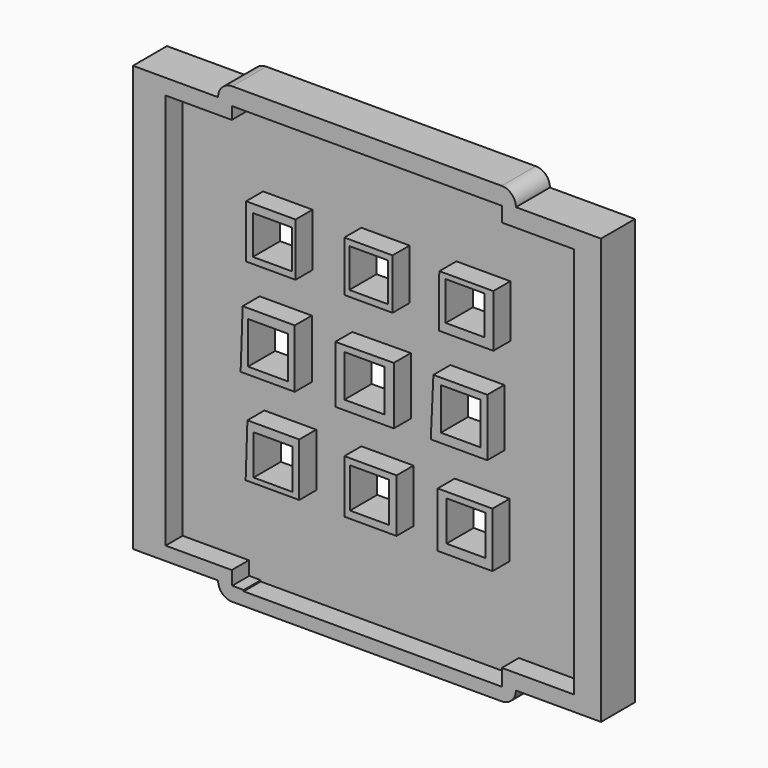
from build123d import *

# Parameters (mm, degrees)
F0_W         = 53.34
F0_H         = 55.88
F1_DEPTH     = 7.62
F2_W         = 6.9647496566
F2_H         = 6.9158999249
F2_W_2       = 7.142085582
F2_H_2       = 7.512583863
F2_W_3       = 6.9877170026
F2_H_3       = 7.1438839659
F3_DEPTH     = 12.7
F2_W_4       = 12.9319038242
F2_H_4       = 12.9319038242
F2_W_5       = 14.6269644419
F2_H_5       = 13.8472662973
F1_FACE1_W   = 53.34
F1_FACE1_H   = 55.88
F1_FACE1_W_2 = 6.9877170026
F1_FACE1_H_2 = 7.1438839659
F1_FACE1_W_3 = 7.142085582
F1_FACE1_H_3 = 7.512583863
F1_FACE1_W_4 = 6.9647496566
F1_FACE1_H_4 = 6.9158999249
F4_DEPTH     = 1.524
F5_DEPTH     = 12.7
F6_DEPTH     = 12.7
F7_W         = 48.3627803624
F7_H         = 9.21196118
F7_W_2       = 46.2242905051
F7_H_2       = 9.2119593173
F8_DEPTH     = 3.81
F9_R         = 0.220598653
F10_DEPTH    = 1.27
F11_R        = 2.54
F12_DEPTH    = 25.4
F13_DEPTH    = 25.4
F14_W        = 8.6474223062
F14_H        = 9.0575804934
F15_DEPTH    = 3.81
F16_DEPTH    = 10.16
F17_DEPTH    = 10.16


with BuildPart() as f1:
    # F0 (on Front) → F1 (new body)
    with BuildSketch(Plane.XZ):
        Rectangle(F0_W, F0_H)
    extrude(amount=F1_DEPTH)

    # F2 (on face) → F3 (cut)
    with BuildSketch(Plane(origin=(0, 0, 0), x_dir=(-1, 0, 0), z_dir=(0, 1, 0))):
        with Locations((-17.5871872343, 19.2178771831)):
            Rectangle(F2_W, F2_H)
        with Locations((-0.3199791066, 18.8110510865)):
            Rectangle(F2_W, F2_H)
        with Locations((17.7371489084, 1.1155152587)):
            Rectangle(F2_W_2, F2_H_2)
        with Locations((16.9472290212, 18.40422499)):
            Rectangle(F2_W, F2_H)
        with Locations((0.4699407807, 1.5223413553)):
            Rectangle(F2_W_2, F2_H_2)
        with Locations((-16.7972673471, 1.9291674519)):
            Rectangle(F2_W_2, F2_H_2)
        with Locations((-17.7232338856, -15.417000194)):
            Rectangle(F2_W_3, F2_H_3)
        with Locations((-0.4560257578, -15.8238262906)):
            Rectangle(F2_W_3, F2_H_3)
        with Locations((16.8111823699, -16.2306523871)):
            Rectangle(F2_W_3, F2_H_3)
    extrude(amount=-F3_DEPTH, mode=Mode.SUBTRACT)

    # F2 (on face) + F1_face1 (on face) → F4 (cut)
    with BuildSketch(Plane(origin=(0, 0, 0), x_dir=(-1, 0, 0), z_dir=(0, 1, 0))):
        with Locations((-17.4605594948, 19.3200809881)):
            Rectangle(F2_W_4, F2_H_4)
        with Locations((-17.5871872343, 19.2178771831)):
            Rectangle(F2_W, F2_H, mode=Mode.SUBTRACT)
        with Locations((-0.193351367, 18.9132548915)):
            Rectangle(F2_W_4, F2_H_4)
        with Locations((-0.3199791066, 18.8110510865)):
            Rectangle(F2_W, F2_H, mode=Mode.SUBTRACT)
        with Locations((17.0738567607, 18.506428795)):
            Rectangle(F2_W_4, F2_H_4)
        with Locations((16.9472290212, 18.40422499)):
            Rectangle(F2_W, F2_H, mode=Mode.SUBTRACT)
        with Locations((-16.4924233591, 1.822609002)):
            Rectangle(F2_W_5, F2_H_5)
        with Locations((-16.7972673471, 1.9291674519)):
            Rectangle(F2_W_2, F2_H_2, mode=Mode.SUBTRACT)
        with Locations((0.7747847687, 1.4157829055)):
            Rectangle(F2_W_5, F2_H_5)
        with Locations((0.4699407807, 1.5223413553)):
            Rectangle(F2_W_2, F2_H_2, mode=Mode.SUBTRACT)
        with Locations((18.0419928964, 1.0089568089)):
            Rectangle(F2_W_5, F2_H_5)
        with Locations((17.7371489084, 1.1155152587)):
            Rectangle(F2_W_2, F2_H_2, mode=Mode.SUBTRACT)
        with Locations((-17.585122473, -15.7968899318)):
            Rectangle(F2_W_4, F2_H_4)
        with Locations((-17.7232338856, -15.417000194)):
            Rectangle(F2_W_3, F2_H_3, mode=Mode.SUBTRACT)
        with Locations((-0.3179143453, -16.2037160284)):
            Rectangle(F2_W_4, F2_H_4)
        with Locations((-0.4560257578, -15.8238262906)):
            Rectangle(F2_W_3, F2_H_3, mode=Mode.SUBTRACT)
        with Locations((16.9492937825, -16.610542125)):
            Rectangle(F2_W_4, F2_H_4)
        with Locations((16.8111823699, -16.2306523871)):
            Rectangle(F2_W_3, F2_H_3, mode=Mode.SUBTRACT)
    with BuildSketch(Plane(origin=(-0.0153981605, -7.62, -0.2350274075), x_dir=(1, 0, 0), z_dir=(0, -1, 0))):
        with Locations((0.0153981605, 0.2350274075)):
            Rectangle(F1_FACE1_W, F1_FACE1_H)
        with Locations((-16.7957842094, -15.9956249796)):
            Rectangle(F1_FACE1_W_2, F1_FACE1_H_2, mode=Mode.SUBTRACT)
        with Locations((-17.7217507479, 1.3505426663)):
            Rectangle(F1_FACE1_W_3, F1_FACE1_H_3, mode=Mode.SUBTRACT)
        with Locations((0.4714239183, -15.588798883)):
            Rectangle(F1_FACE1_W_2, F1_FACE1_H_2, mode=Mode.SUBTRACT)
        with Locations((17.7386320461, -15.1819727865)):
            Rectangle(F1_FACE1_W_2, F1_FACE1_H_2, mode=Mode.SUBTRACT)
        with Locations((-0.4545426202, 1.7573687629)):
            Rectangle(F1_FACE1_W_3, F1_FACE1_H_3, mode=Mode.SUBTRACT)
        with Locations((-16.9318308607, 18.6392523975)):
            Rectangle(F1_FACE1_W_4, F1_FACE1_H_4, mode=Mode.SUBTRACT)
        with Locations((16.8126655076, 2.1641948594)):
            Rectangle(F1_FACE1_W_3, F1_FACE1_H_3, mode=Mode.SUBTRACT)
        with Locations((0.335377267, 19.0460784941)):
            Rectangle(F1_FACE1_W_4, F1_FACE1_H_4, mode=Mode.SUBTRACT)
        with Locations((17.6025853948, 19.4529045907)):
            Rectangle(F1_FACE1_W_4, F1_FACE1_H_4, mode=Mode.SUBTRACT)
    extrude(amount=-F4_DEPTH, dir=(0, 1, 0), mode=Mode.SUBTRACT)

    # F5 (add): a face of the model
    f5_faces = [f1.faces().sort_by_distance(p)[0] for p in [
        (0, -3.81, -27.94),
    ]]
    extrude(f5_faces, amount=F5_DEPTH)

    # F6 (add): a face of the model
    f6_faces = [f1.faces().sort_by_distance(p)[0] for p in [
        (0, -3.81, 27.94),
    ]]
    extrude(f6_faces, amount=F6_DEPTH)

    # F7 (on face) → F8 (cut)
    with BuildSketch(Plane.XZ.offset(7.62)):
        with Locations((-0.0346731395, 32.9044740647)):
            Rectangle(F7_W, F7_H)
        with Locations((1.0345717892, -33.7177244946)):
            Rectangle(F7_W_2, F7_H_2)
    extrude(amount=-F8_DEPTH, mode=Mode.SUBTRACT)

    # F9 (on face) → F10 (join)
    with BuildSketch(Plane(origin=(0, 0, 0), x_dir=(-1, 0, 0), z_dir=(0, 1, 0))):
        Polygon((-21.5642638505, 38.9935299754), (-23.756287992, 32.6229557395), (-23.2180580497, 32.6229557395), (-22.288044689, 35.3258087978), (-20.9252927452, 35.3258087978), (-20.1400984079, 32.7599570155), (-19.4407384843, 32.7599570155), align=None)
        Polygon((-22.0701542093, 36.0606829284), (-21.5534474701, 37.5623628497), (-20.9252927452, 36.0606829284), align=None, mode=Mode.SUBTRACT)
        with BuildLine():
            Line((-18.6011195183, 35.5522669852), (-18.6011195183, 32.7599570155))
            Line((-18.6011195183, 32.7599570155), (-18.2870421559, 32.7599570155))
            Line((-18.2870421559, 32.7599570155), (-18.2870421559, 34.3587733805))
            ThreePointArc((-18.2870421559, 34.3587733805), (-17.8316300735, 34.8141854629), (-17.3762179911, 34.3587733805))
            Line((-17.3762179911, 34.3587733805), (-17.3762179911, 32.7883847058))
            Line((-17.3762179911, 32.7883847058), (-17.0621406287, 32.7883847058))
            Line((-17.0621406287, 32.7883847058), (-17.0621406287, 34.3587733805))
            ThreePointArc((-17.0621406287, 34.3587733805), (-16.5058778767, 34.8084645736), (-16.1827225238, 34.1703258455))
            Line((-16.1827225238, 34.1703258455), (-16.1827225238, 32.7255688608))
            Line((-16.1827225238, 32.7255688608), (-15.8686451614, 32.7255688608))
            Line((-15.8686451614, 32.7255688608), (-15.8686451614, 35.1753756404))
            Line((-15.8686451614, 35.1753756404), (-18.2242263108, 35.1753756404))
            Line((-18.2242263108, 35.1753756404), (-18.2242263108, 35.5522669852))
            Line((-18.2242263108, 35.5522669852), (-18.6011195183, 35.5522669852))
        make_face()
        with BuildLine():
            ThreePointArc((-14.7138162578, 32.9768322408), (-12.8330450339, 34.3170137201), (-14.9770136923, 35.1753756404))
            Line((-14.9770136923, 35.1753756404), (-14.9770136923, 28.5483412445))
            Line((-14.9770136923, 28.5483412445), (-14.7138162578, 28.6380019305))
            Line((-14.7138162578, 28.6380019305), (-14.7138162578, 32.9768322408))
        make_face()
        with BuildLine():
            ThreePointArc((-14.5043041557, 34.9241122603), (-13.2031010639, 34.1232139617), (-14.5043041557, 33.3223156631))
            Line((-14.5043041557, 33.3223156631), (-14.5043041557, 34.9241122603))
        make_face(mode=Mode.SUBTRACT)
        Polygon((-11.7941042408, 39.0699356794), (-12.1407583356, 39.1013436019), (-12.1407583356, 32.411493361), (-11.7941042408, 32.411493361), align=None)
        Polygon((-10.6596006081, 35.2067835629), (-10.7226287946, 35.2695956826), (-10.7226287946, 32.285861671), (-10.3129474446, 32.285861671), (-10.3129474446, 35.2381914854), align=None)
        with Locations((-10.5335460976, 36.3374613225)):
            Circle(F9_R)
    extrude(amount=F10_DEPTH)

    # F11
    f11_edges = [f1.edges().sort_by_distance(p)[0] for p in [
        (-26.67, -3.81, -40.64),
        (26.67, -3.81, -40.64),
        (-26.67, -3.81, 40.64),
        (26.67, -3.81, 40.64),
    ]]
    fillet(f11_edges, radius=F11_R)

    # F12 (add): a face of the model
    f12_faces = [f1.faces().sort_by_distance(p)[0] for p in [
        (26.67, -3.81, 0),
    ]]
    extrude(f12_faces, amount=F12_DEPTH)

    # F13 (add): a face of the model
    f13_faces = [f1.faces().sort_by_distance(p)[0] for p in [
        (-26.67, -3.81, 0),
    ]]
    extrude(f13_faces, amount=F13_DEPTH)

    # F14 (on face) → F15 (cut)
    with BuildSketch(Plane.XZ.offset(7.62)):
        Polygon((-24.2160633206, 28.2984934747), (-24.2160633206, 35.3128537536), (-36.0651426017, 35.3128537536), (-36.0651426017, -35.6575846672), (-24.2160633206, -35.6575846672), (-24.13, -38.1), (-22.0775734633, -38.1095105129), (-22.0775734633, -29.111744836), (24.1467170417, -29.111744836), (24.1467170417, -35.3516750038), (37.0466448367, -35.3516750038), (37.0466448367, 34.8539948463), (24.1467170417, 34.8539948463), (24.1467170417, 28.2984934747), align=None)
        Polygon((-21.7285297817, -20.6878054887), (-21.417182185, -11.1398342997), (-12.1310912073, -11.1398342997), (-12.1310912073, -20.6878054887), align=None, mode=Mode.SUBTRACT)
        Polygon((-4.0502455086, -11.1398342997), (-3.5102546681, -11.1398342997), (5.2879904397, -11.1398342997), (5.2879904397, -20.6878054887), (-4.0502455086, -20.6878054887), align=None, mode=Mode.SUBTRACT)
        Polygon((12.6701863483, -10.7928056636), (13.2262245561, -10.7928056636), (22.4769907072, -10.7928056636), (22.4769907072, -20.3266570711), (22.4769907072, -20.6506530189), (12.6701863483, -20.6506530189), align=None, mode=Mode.SUBTRACT)
        Polygon((-22.6313306501, -3.894040361), (-22.2658846255, 6.5821157768), (-12.9366954789, 6.5821157768), (-12.9366954789, -3.894040361), align=None, mode=Mode.SUBTRACT)
        Polygon((-5.6805885397, 6.3536247816), (4.8056235537, 6.4439885318), (4.8056235537, -3.894040361), (-5.6805885397, -3.894040361), align=None, mode=Mode.SUBTRACT)
        Polygon((-21.6539856046, 23.32155779), (-20.6820014864, 23.32155779), (-12.7981174737, 23.32155779), (-12.7981174737, 13.8176986948), (-21.6539856046, 13.8176986948), align=None, mode=Mode.SUBTRACT)
        Polygon((11.4248357962, -3.4631828312), (11.89452369, 6.8579683793), (21.5453766286, 6.8579683793), (21.5453766286, -3.4631828312), align=None, mode=Mode.SUBTRACT)
        with Locations((0.2598371357, 18.7927675433)):
            Rectangle(F14_W, F14_H, mode=Mode.SUBTRACT)
        Polygon((12.9055045545, 14.1416946426), (12.9055045545, 22.2415737808), (12.9653734768, 23.5586725175), (22.6253625005, 23.5586725175), (22.6253625005, 14.1416946426), align=None, mode=Mode.SUBTRACT)
    extrude(amount=-F15_DEPTH, mode=Mode.SUBTRACT)

    # F16 (cut): a face of the model
    f16_faces = [f1.faces().sort_by_distance(p)[0] for p in [
        (52.07, -3.81, 0),
    ]]
    extrude(f16_faces, amount=-F16_DEPTH, mode=Mode.SUBTRACT)

    # F17 (cut): a face of the model
    f17_faces = [f1.faces().sort_by_distance(p)[0] for p in [
        (-52.07, -3.81, 0),
    ]]
    extrude(f17_faces, amount=-F17_DEPTH, mode=Mode.SUBTRACT)


solid = f1.part
